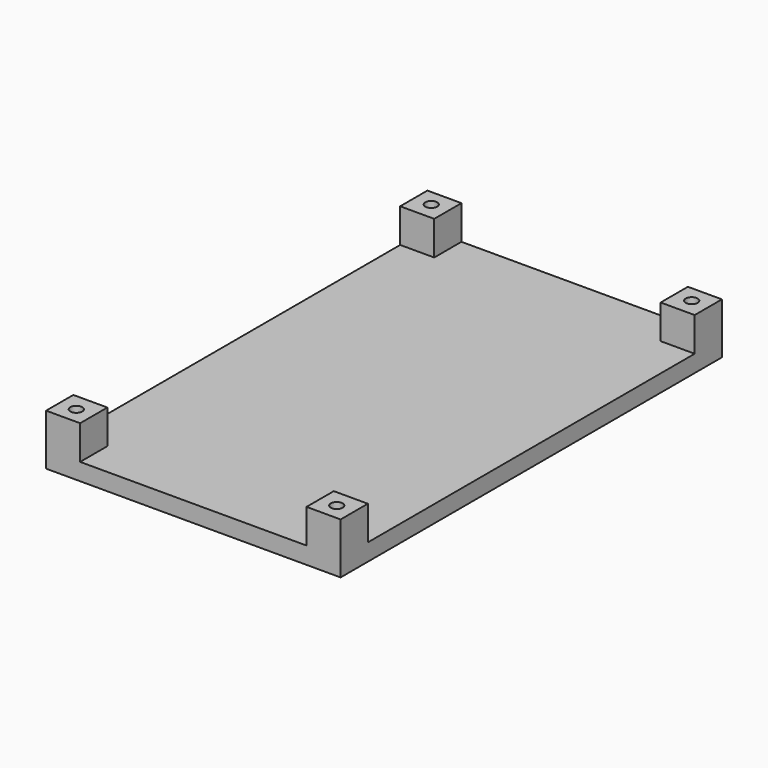
from build123d import *

# Parameters (mm, degrees)
F0_W     = 86.5
F0_H     = 140
F1_DEPTH = 15
F2_W     = 10
F2_H     = 120
F2_R     = 1.75
F3_DEPTH = 10


with BuildPart() as f1:
    # F0 (on Top) → F1 (new body)
    with BuildSketch(Plane.XY):
        Rectangle(F0_W, F0_H)
    extrude(amount=F1_DEPTH)

    # F2 (on face) → F3 (cut)
    with BuildSketch(Plane.XY.offset(15)):
        Polygon((-33.25, -70), (33.25, -70), (33.25, -60), (33.25, 60), (33.25, 70), (-33.25, 70), (-33.25, 60), (-33.25, -60), align=None)
        with Locations((38.25, 0)):
            Rectangle(F2_W, F2_H)
        with Locations((-38.25, 0)):
            Rectangle(F2_W, F2_H)
        with Locations((-38.248722, 65.155797)):
            Circle(F2_R)
        with Locations((38.248722, 65.155797)):
            Circle(F2_R)
        with Locations((-38.248722, -65.155797)):
            Circle(F2_R)
        with Locations((38.248722, -65.155797)):
            Circle(F2_R)
    extrude(amount=-F3_DEPTH, mode=Mode.SUBTRACT)


solid = f1.part
